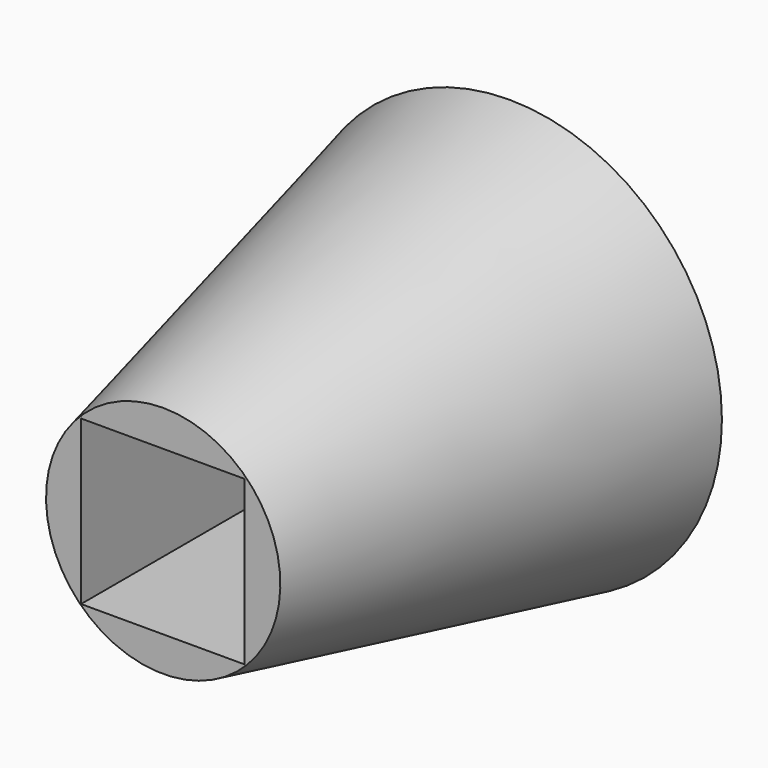
from build123d import *

# Parameters (mm, degrees)
F1_W     = 19.177
F1_H     = 19.177
F1_R     = 3.175
F4_DEPTH = 61.976


with BuildPart() as f3:
    # F2 (on Right) → F3 (revolve)
    with BuildSketch(Plane.YZ):
        Polygon((-50.796472, 0), (0, 0), (0, 24.963303), (-50.796472, 13.754399), align=None)
    revolve(axis=Axis((0, -25.398236, 0), (0, -1, 0)))

    # F1 (on offset) → F4 (cut)
    with BuildSketch(Plane.XZ.offset(50.8)):
        with Locations((-0.053663, -0.071549)):
            Rectangle(F1_W, F1_H)
        with Locations((-0.053663, -0.071549)):
            Circle(F1_R, mode=Mode.SUBTRACT)
        with Locations((-0.053663, -0.071549)):
            Circle(F1_R)
    extrude(amount=-F4_DEPTH, mode=Mode.SUBTRACT)


solid = f3.part
